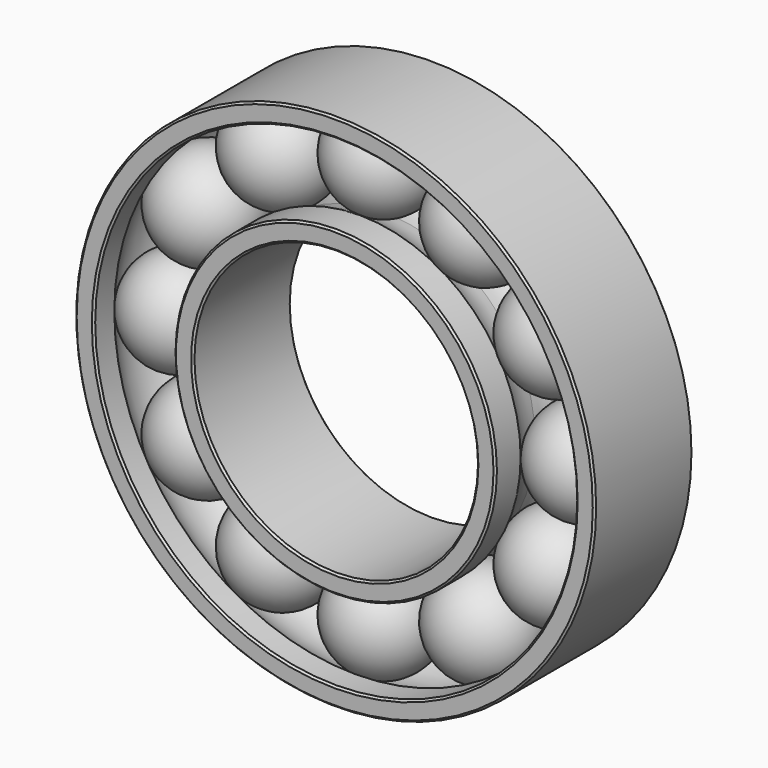
from build123d import *

# Parameters (mm, degrees)
F0_R      = 27.5
F0_R_2    = 25.5
F1_DEPTH  = 6.5
F0_R_3    = 17
F0_R_4    = 15
F2_R      = 5.5
F6_COUNT  = 12
F7_SIZE   = 0.2
F7_2_SIZE = 0.2


with BuildPart() as f1:
    # F0 (on Front) → F1 (new body, symmetric)
    with BuildSketch(Plane.XZ):
        Circle(F0_R)
        Circle(F0_R_2, mode=Mode.SUBTRACT)
    extrude(amount=F1_DEPTH, both=True)


with BuildPart() as f1b:
    # F0 (on Front) → F1, piece 2 (new body, symmetric)
    with BuildSketch(Plane.XZ):
        Circle(F0_R_3)
        Circle(F0_R_4, mode=Mode.SUBTRACT)
    extrude(amount=F1_DEPTH, both=True)


with BuildPart() as f3_tool:
    # F2 (on Top) → F3 (revolve)
    with BuildSketch(Plane.XY):
        with Locations((-21.5, 0)):
            Circle(F2_R)
    revolve(axis=Axis((0, -6.5, 0), (0, -1, 0)))


with BuildPart() as f1_1:
    add(f1.part)

    # F3: cut by f3_tool
    add(f3_tool.part, mode=Mode.SUBTRACT)

    # F7#2
    f7_2_edges = [f1_1.edges().sort_by_distance(p)[0] for p in [
        (-25.5, -6.5, 0),
        (-27.5, -6.5, 0),
        (-25.5, 6.5, 0),
        (-27.5, 6.5, 0),
    ]]
    chamfer(f7_2_edges, length=F7_2_SIZE)


with BuildPart() as f1b_1:
    add(f1b.part)

    # F3: cut by f3_tool
    add(f3_tool.part, mode=Mode.SUBTRACT)

    # F7
    f7_edges = [f1b_1.edges().sort_by_distance(p)[0] for p in [
        (-15, -6.5, 0),
        (-17, -6.5, 0),
        (-15, 6.5, 0),
        (-17, 6.5, 0),
    ]]
    chamfer(f7_edges, length=F7_SIZE)


with BuildPart() as f5:
    # F4 (on Top) → F5 (revolve)
    with BuildSketch(Plane.XY):
        with BuildLine():
            Line((-27, 0), (-16, 0))
            ThreePointArc((-16, 0), (-21.5, 5.5), (-27, 0))
        make_face()
    revolve(axis=Axis((-21.5, 0, 0), (-1, 0, 0)))


with BuildPart() as f6_1:
    # F6: instance of F5
    add(f5.part.rotate(Axis((0, -6.5, 0), (0, -1, 0)), 1 * 360 / F6_COUNT))


with BuildPart() as f6_2:
    # F6: instance of F5
    add(f5.part.rotate(Axis((0, -6.5, 0), (0, -1, 0)), 2 * 360 / F6_COUNT))


with BuildPart() as f6_3:
    # F6: instance of F5
    add(f5.part.rotate(Axis((0, -6.5, 0), (0, -1, 0)), 3 * 360 / F6_COUNT))


with BuildPart() as f6_4:
    # F6: instance of F5
    add(f5.part.rotate(Axis((0, -6.5, 0), (0, -1, 0)), 4 * 360 / F6_COUNT))


with BuildPart() as f6_5:
    # F6: instance of F5
    add(f5.part.rotate(Axis((0, -6.5, 0), (0, -1, 0)), 5 * 360 / F6_COUNT))


with BuildPart() as f6_6:
    # F6: instance of F5
    add(f5.part.rotate(Axis((0, -6.5, 0), (0, -1, 0)), 6 * 360 / F6_COUNT))


with BuildPart() as f6_7:
    # F6: instance of F5
    add(f5.part.rotate(Axis((0, -6.5, 0), (0, -1, 0)), 7 * 360 / F6_COUNT))


with BuildPart() as f6_8:
    # F6: instance of F5
    add(f5.part.rotate(Axis((0, -6.5, 0), (0, -1, 0)), 8 * 360 / F6_COUNT))


with BuildPart() as f6_9:
    # F6: instance of F5
    add(f5.part.rotate(Axis((0, -6.5, 0), (0, -1, 0)), 9 * 360 / F6_COUNT))


with BuildPart() as f6_10:
    # F6: instance of F5
    add(f5.part.rotate(Axis((0, -6.5, 0), (0, -1, 0)), 10 * 360 / F6_COUNT))


with BuildPart() as f6_11:
    # F6: instance of F5
    add(f5.part.rotate(Axis((0, -6.5, 0), (0, -1, 0)), 11 * 360 / F6_COUNT))


solid = Compound([f1_1.part, f1b_1.part, f5.part, f6_1.part, f6_2.part, f6_3.part, f6_4.part, f6_5.part, f6_6.part, f6_7.part, f6_8.part, f6_9.part, f6_10.part, f6_11.part])
